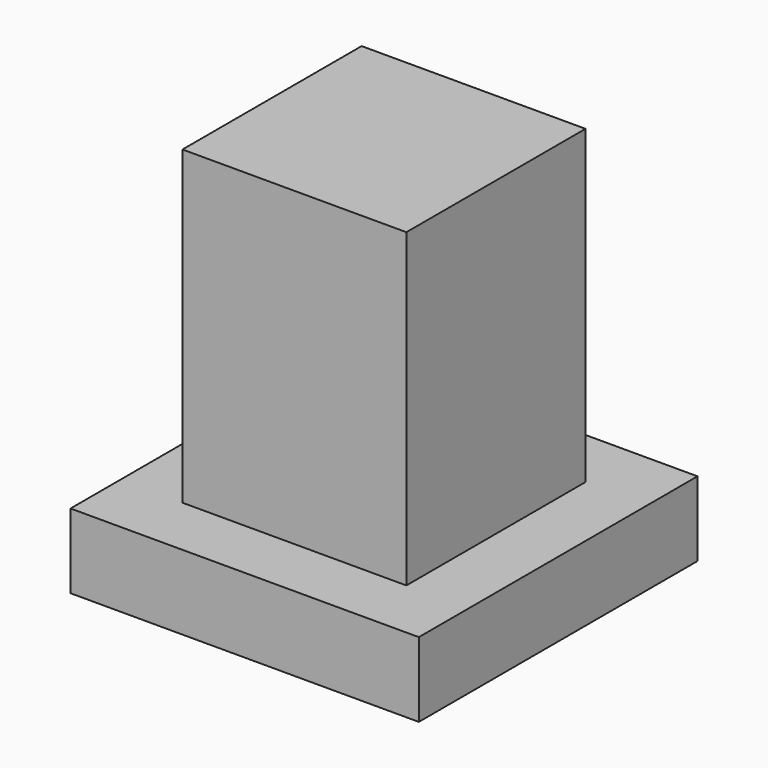
from build123d import *

# Parameters (mm, degrees)
SKETCH_W     = 5.6
SKETCH_H     = 5.6
PAD_DEPTH    = 1.2
SKETCH001_W  = 3.6
SKETCH001_H  = 3.6
PAD001_DEPTH = 5


with BuildPart() as part:
    # Sketch → Pad (new body)
    with BuildSketch(Plane.XY):
        Rectangle(SKETCH_W, SKETCH_H)
    extrude(amount=PAD_DEPTH)

    # Sketch001 → Pad001 (new body)
    with BuildSketch(Plane.XY.offset(1.2)):
        Rectangle(SKETCH001_W, SKETCH001_H)
    extrude(amount=PAD001_DEPTH)


solid = part.part
